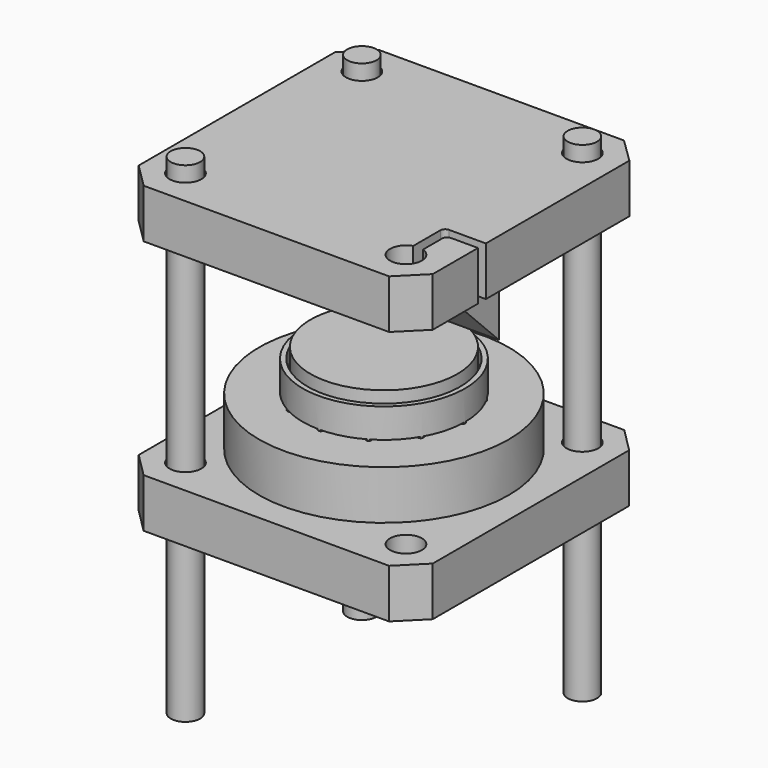
from build123d import *

# Parameters (mm, degrees)
SKETCH002_R             = 3
PAD_DEPTH               = 100
BODY002_PLACEMENT_ANGLE = 90
BODY003_PLACEMENT_ANGLE = 180
BODY004_PLACEMENT_ANGLE = 90
SKETCH005_R             = 3.25
SKETCH005_R_2           = 20.95
PAD003_DEPTH            = 10
SKETCH003_R             = 3.25
PAD001_DEPTH            = 10
PAD002_DEPTH            = 15
BODY007_PLACEMENT_ANGLE = 180
SKETCH008_R             = 0.5
PAD004_DEPTH            = 3
PAD004_TAPER            = -6
SKETCH009_R             = 17.689642
SKETCH009_R_2           = 14.672519
PAD005_DEPTH            = 0.5


with BuildPart() as obj1:
    # Sketch → Revolution (revolve)
    with BuildSketch(Plane.XZ):
        with BuildLine():
            Line((25.475, 20.63), (25.475, 10.63))
            Line((25.475, 10.63), (20.95, 10.63))
            Line((20.95, 10.63), (20.95, 6.5))
            ThreePointArc((14.45, 0), (19.046194, 1.903806), (20.95, 6.5))
            Line((14.45, 0), (2.45, 0))
            Line((2.45, 0), (2.45, 4.5))
            Line((2.45, 4.5), (0, 4.5))
            Line((0, 4.5), (0, 8.73))
            Line((2.45, 8.73), (0, 8.73))
            Line((2.45, 14.63), (2.45, 8.73))
            Line((13.67, 14.63), (2.45, 14.63))
            Line((13.67, 20.63), (13.67, 14.63))
            Line((25.475, 20.63), (13.67, 20.63))
        make_face()
    revolve(axis=Axis((0, 0, 0), (0, 0, 1)))


with BuildPart() as obj1_1:
    # Body placement: moved
    add(obj1.part.moved(Location((0, 0, 35))))


with BuildPart() as rod1body:
    # Sketch002 → Pad (new body)
    with BuildSketch(Plane.XY):
        with Locations((22.5, -22.5)):
            Circle(SKETCH002_R)
    extrude(amount=PAD_DEPTH)


with BuildPart() as rod2body:
    # Body002 base: copy of Rod1Body
    add(rod1body.part)


with BuildPart() as rod2body_1:
    # Body002 placement: moved
    add(rod2body.part.rotate(Axis((0, 0, 0), (0, 0, 1)), BODY002_PLACEMENT_ANGLE))


with BuildPart() as rod3body:
    # Body003 base: copy of Rod1Body
    add(rod1body.part)


with BuildPart() as rod3body_1:
    # Body003 placement: moved
    add(rod3body.part.rotate(Axis((0, 0, 0), (0, 0, 1)), BODY003_PLACEMENT_ANGLE))


with BuildPart() as rod4body:
    # Body004 base: copy of Rod1Body
    add(rod1body.part)


with BuildPart() as rod4body_1:
    # Body004 placement: moved
    add(rod4body.part.rotate(Axis((0, 0, 0), (0, 0, -1)), BODY004_PLACEMENT_ANGLE))


with BuildPart() as obj2:
    # Sketch005 (on DatumPlane) → Pad003 (new body)
    with BuildSketch(Plane.XY.offset(35)):
        Polygon((30, 25.050253), (30, -25.050253), (25.050253, -30), (-25.050253, -30), (-30, -25.050253), (-30, 25.050253), (-25.050253, 30), (25.050253, 30), align=None)
        with Locations((22.5, 22.5)):
            Circle(SKETCH005_R, mode=Mode.SUBTRACT)
        with Locations((22.5, -22.5)):
            Circle(SKETCH005_R, mode=Mode.SUBTRACT)
        with Locations((-22.5, -22.5)):
            Circle(SKETCH005_R, mode=Mode.SUBTRACT)
        with Locations((-22.5, 22.5)):
            Circle(SKETCH005_R, mode=Mode.SUBTRACT)
        Circle(SKETCH005_R_2, mode=Mode.SUBTRACT)
    extrude(amount=PAD003_DEPTH)


with BuildPart() as mirrormount45body2:
    # Sketch003 → Pad001 (new body)
    with BuildSketch(Plane.XY):
        with BuildLine():
            Line((30, 25.050253), (30, 13.5))
            Line((30, 13.5), (24.5, 13.5))
            ThreePointArc((23.5, 14.5), (23.792893, 13.792893), (24.5, 13.5))
            Line((23.5, 14.5), (23.5, 19.407671))
            ThreePointArc((23.5, 19.407671), (22.5, 25.75), (21.5, 19.407671))
            Line((21.5, 19.407671), (21.5, 12.5))
            ThreePointArc((21.5, 12.5), (21.792893, 11.792893), (22.5, 11.5))
            Line((22.5, 11.5), (30, 11.5))
            Line((30, 11.5), (30, -25.108645))
            Line((30, -25.108645), (24.992541, -30))
            Line((24.992541, -30), (-25.088851, -30))
            Line((-25.088851, -30), (-30, -25.011952))
            Line((-30, -25.011952), (-30, 25.06944))
            Line((-30, 25.06944), (-25.03114, 30))
            Line((-25.03114, 30), (25.050253, 30))
            Line((25.050253, 30), (30, 25.050253))
        make_face()
        with Locations((-22.5, 22.5)):
            Circle(SKETCH003_R, mode=Mode.SUBTRACT)
        with Locations((22.5, -22.5)):
            Circle(SKETCH003_R, mode=Mode.SUBTRACT)
        with Locations((-22.5, -22.5)):
            Circle(SKETCH003_R, mode=Mode.SUBTRACT)
    extrude(amount=PAD001_DEPTH)

    # Sketch004 → Pad002 (join, symmetric)
    with BuildSketch(Plane.YZ):
        Polygon((-10.606602, 31.213203), (-10.606602, 10), (10.606602, 10), align=None)
    extrude(amount=PAD002_DEPTH, both=True)


with BuildPart() as mirrormount45body2_1:
    # Body007 placement: moved
    add(mirrormount45body2.part.moved(Location((0, 0, 97))).rotate(Axis((0, 0, 97), (1, 0, 0)), BODY007_PLACEMENT_ANGLE))


with BuildPart() as obj3:
    # Sketch006 → Revolution001 (revolve)
    with BuildSketch(Plane.XZ):
        Polygon((0, 56), (15, 56), (15, 64), (0, 64), (0, 63), (14, 63), (14, 57), (0, 57), align=None)
    revolve(axis=Axis((0, 0, 0), (0, 0, 1)))


with BuildPart() as dishflangebody:
    # Sketch007 → Revolution002 (revolve)
    with BuildSketch(Plane.YZ):
        Polygon((13.57, 0), (13.57, 3), (16.57, 3), (16.57, 6), (16.57, 9), (15.57, 9), (15.57, 6), (10.1, 6), (10.1, 3), (8.1, 3), (8.1, 0), align=None)
    revolve(axis=Axis((0, 0, 0), (0, 0, 1)))

    # Sketch008 → Pad004 (new body)
    with BuildSketch(Plane.XY.offset(3)):
        with Locations((13.917894, 8.0355)):
            Circle(SKETCH008_R)
        with Locations((16.071, 0)):
            Circle(SKETCH008_R)
        with Locations((13.917894, -8.0355)):
            Circle(SKETCH008_R)
        with Locations((8.0355, -13.917894)):
            Circle(SKETCH008_R)
        with Locations((0, -16.071)):
            Circle(SKETCH008_R)
        with Locations((-8.0355, -13.917894)):
            Circle(SKETCH008_R)
        with Locations((-13.917894, -8.0355)):
            Circle(SKETCH008_R)
        with Locations((-16.071, 0)):
            Circle(SKETCH008_R)
        with Locations((-13.917894, 8.0355)):
            Circle(SKETCH008_R)
        with Locations((-8.0355, 13.917894)):
            Circle(SKETCH008_R)
        with Locations((0, 16.071)):
            Circle(SKETCH008_R)
        with Locations((8.0355, 13.917894)):
            Circle(SKETCH008_R)
    extrude(amount=-PAD004_DEPTH, taper=PAD004_TAPER)

    # Sketch009 → Pad005 (join)
    with BuildSketch(Plane.XY):
        Circle(SKETCH009_R)
        Circle(SKETCH009_R_2, mode=Mode.SUBTRACT)
    extrude(amount=PAD005_DEPTH)


with BuildPart() as dishflangebody_1:
    # Body009 placement: moved
    add(dishflangebody.part.moved(Location((0, 0, 52.9))))


solid = Compound([obj1_1.part, rod2body_1.part, rod3body_1.part, rod4body_1.part, obj2.part, mirrormount45body2_1.part, obj3.part, dishflangebody_1.part])
